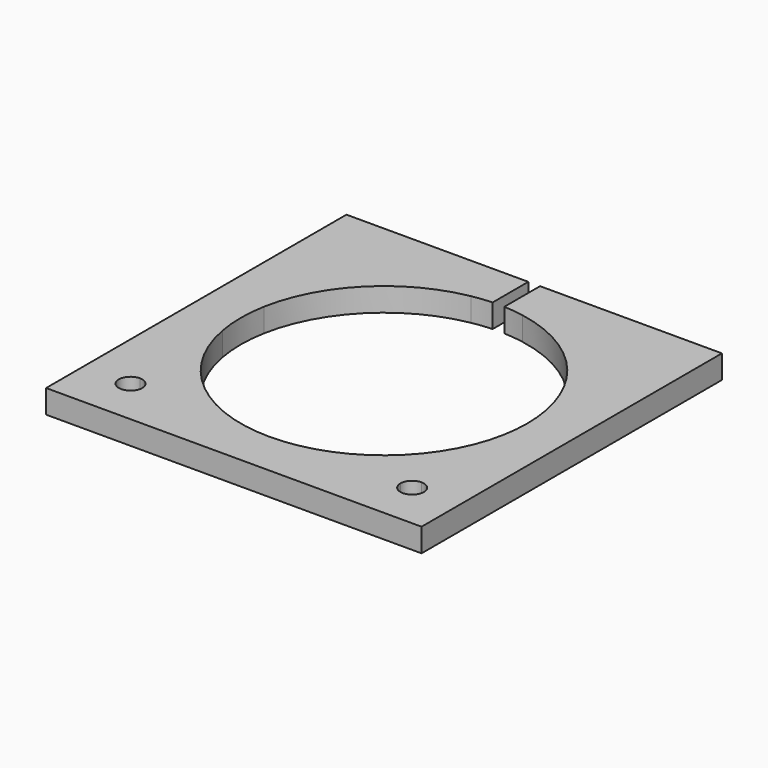
from build123d import *

# Parameters (mm, degrees)
F1_DEPTH = 10


with BuildPart() as f1:
    # F0 (on Top) → F1 (new body)
    with BuildSketch(Plane.XY):
        with BuildLine():
            Line((-80, 80), (-80, -80))
            Line((-80, -80), (80, -80))
            Line((80, -80), (80, 80))
            Line((80, 80), (2.5, 80))
            Line((2.5, 80), (2.5, 60.9487489617))
            ThreePointArc((2.5, 60.9487489617), (6.7666484428, 60.6235306531), (11, 60))
            Line((11, 60), (60, 60))
            Line((60, 60), (60, 11))
            ThreePointArc((60, 11), (61, 0), (60, -11))
            Line((60, -11), (60, -55))
            ThreePointArc((60, -55), (63.5355339059, -56.4644660941), (65, -60))
            ThreePointArc((65, -60), (60, -65), (55, -60))
            Line((55, -60), (11, -60))
            ThreePointArc((11, -60), (0, -61), (-11, -60))
            Line((-11, -60), (-55, -60))
            ThreePointArc((-55, -60), (-63.5355339059, -63.5355339059), (-60, -55))
            Line((-60, -55), (-60, -11))
            ThreePointArc((-60, -11), (-61, 0), (-60, 11))
            Line((-60, 11), (-60, 60))
            Line((-60, 60), (-11, 60))
            ThreePointArc((-11, 60), (-6.7666484428, 60.6235306531), (-2.5, 60.9487489617))
            Line((-2.5, 60.9487489617), (-2.5, 80))
            Line((-2.5, 80), (-80, 80))
        make_face()
        with BuildLine():
            Line((60, -55), (60, -11))
            ThreePointArc((60, -11), (43.1335136524, -43.1335136524), (11, -60))
            Line((11, -60), (55, -60))
            ThreePointArc((55, -60), (56.4644660941, -56.4644660941), (60, -55))
        make_face()
        with BuildLine():
            ThreePointArc((-11, -60), (-43.1335136524, -43.1335136524), (-60, -11))
            Line((-60, -11), (-60, -55))
            ThreePointArc((-60, -55), (-56.4644660941, -56.4644660941), (-55, -60))
            Line((-55, -60), (-11, -60))
        make_face()
        with BuildLine():
            ThreePointArc((-60, 11), (-43.1335136524, 43.1335136524), (-11, 60))
            Line((-11, 60), (-60, 60))
            Line((-60, 60), (-60, 11))
        make_face()
        with BuildLine():
            Line((60, 60), (11, 60))
            ThreePointArc((11, 60), (43.1335136524, 43.1335136524), (60, 11))
            Line((60, 11), (60, 60))
        make_face()
    extrude(amount=F1_DEPTH)


solid = f1.part
